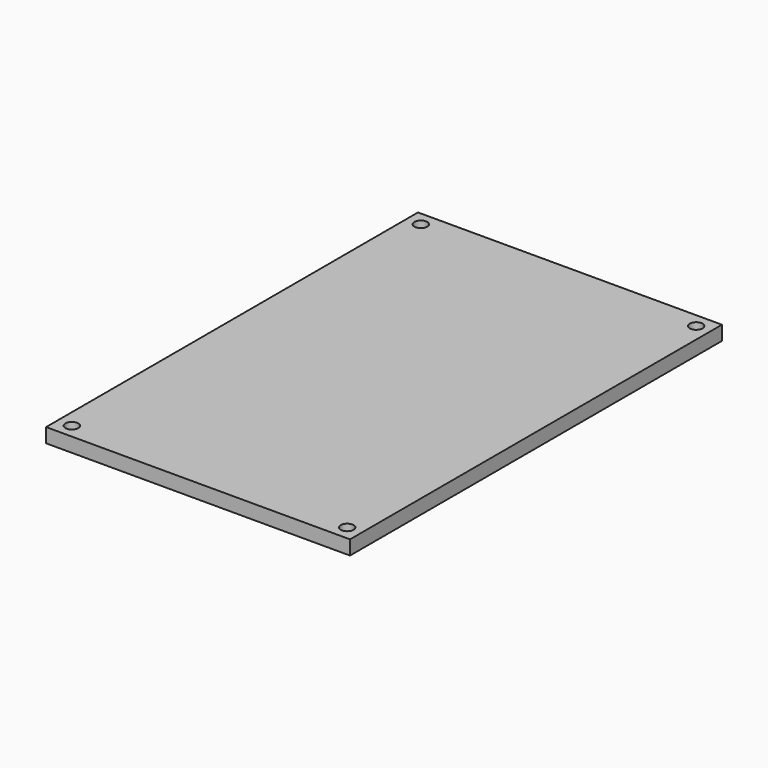
from build123d import *

# Parameters (mm, degrees)
F2_W     = 85
F2_H     = 130
F3_DEPTH = 4
F4_D     = 3.6
F4_DEPTH = 4
F4_TIP   = 1.0815491142


with BuildPart() as f3:
    # F2 (on Top) → F3 (new body)
    with BuildSketch(Plane.XY):
        Rectangle(F2_W, F2_H)
    extrude(amount=F3_DEPTH)

    # F4
    with Locations(Plane(origin=(0, 0, 0), x_dir=(1, 0, 0), z_dir=(0, 0, -1))):
        with Locations((38.5, -61), (38.5, 61), (-38.5, 61), (-38.5, -61)):
            Hole(F4_D / 2, depth=F4_DEPTH)
            with Locations((0, 0, -(F4_DEPTH + F4_TIP / 2))):  # 118° drill point
                Cone(0, F4_D / 2, F4_TIP, mode=Mode.SUBTRACT)


solid = f3.part
